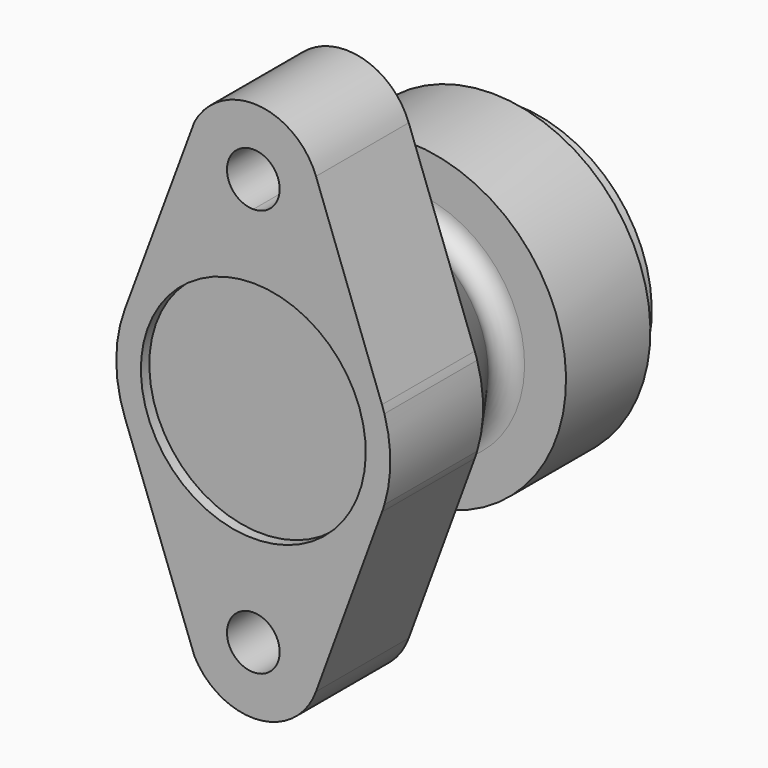
from build123d import *

# Parameters (mm, degrees)
F2_R     = 7.5
F2_R_2   = 32
F3_DEPTH = 33


with BuildPart() as f1:
    # F0 (on Right) → F1 (revolve)
    with BuildSketch(Plane.YZ):
        with BuildLine():
            Line((3, 32), (3, 0))
            Line((3, 0), (21, 0))
            Line((21, 0), (21, 26))
            Line((21, 26), (63, 26))
            Line((63, 26), (63, 29))
            Line((63, 29), (93, 31))
            Line((93, 31), (93, 39))
            Line((93, 39), (85, 39))
            Line((85, 39), (85, 45))
            Line((85, 45), (55, 45))
            Line((55, 45), (55, 33.200345))
            ThreePointArc((55, 33.200345), (52.308743, 28.765291), (47.132118, 29.104585))
            Line((47.132118, 29.104585), (33, 39))
            Line((33, 39), (0, 39))
            Line((0, 39), (0, 32))
            Line((0, 32), (3, 32))
        make_face()
    revolve(axis=Axis((0, 12, 0), (0, 1, 0)))

    # F2 (on face) → F3 (join)
    with BuildSketch(Plane.XZ):
        with BuildLine():
            Line((36.607976, 13.448276), (17.834655, 64.551724))
            ThreePointArc((17.834655, 64.551724), (1.340517, 76.952652), (-16.734909, 66.996823))
            Line((-16.734909, 66.996823), (-36.563187, 13.569575))
            ThreePointArc((-36.563187, 13.569575), (0.064652, 38.999946), (36.607976, 13.448276))
        make_face()
        with BuildLine():
            ThreePointArc((0, 50.5), (-5.303301, 63.303301), (7.5, 58))
            ThreePointArc((7.5, 58), (5.303301, 52.696699), (0, 50.5))
        make_face(mode=Mode.SUBTRACT)
        with BuildLine():
            ThreePointArc((36.607976, -13.448276), (0.064652, -38.999946), (-36.563187, -13.569575))
            Line((-36.563187, -13.569575), (-16.734909, -66.996823))
            ThreePointArc((-16.734909, -66.996823), (1.340517, -76.952652), (17.834655, -64.551724))
            Line((17.834655, -64.551724), (36.607976, -13.448276))
        make_face()
        with Locations((0, -58)):
            Circle(F2_R, mode=Mode.SUBTRACT)
        with BuildLine():
            ThreePointArc((39, 0), (38.397337, 6.829676), (36.607976, 13.448276))
            ThreePointArc((36.607976, 13.448276), (0.064652, 38.999946), (-36.563187, 13.569575))
            ThreePointArc((-36.563187, 13.569575), (-39, 0), (-36.563187, -13.569575))
            ThreePointArc((-36.563187, -13.569575), (0.064652, -38.999946), (36.607976, -13.448276))
            ThreePointArc((36.607976, -13.448276), (38.397337, -6.829676), (39, 0))
        make_face()
        Circle(F2_R_2, mode=Mode.SUBTRACT)
    extrude(amount=-F3_DEPTH)


solid = f1.part
